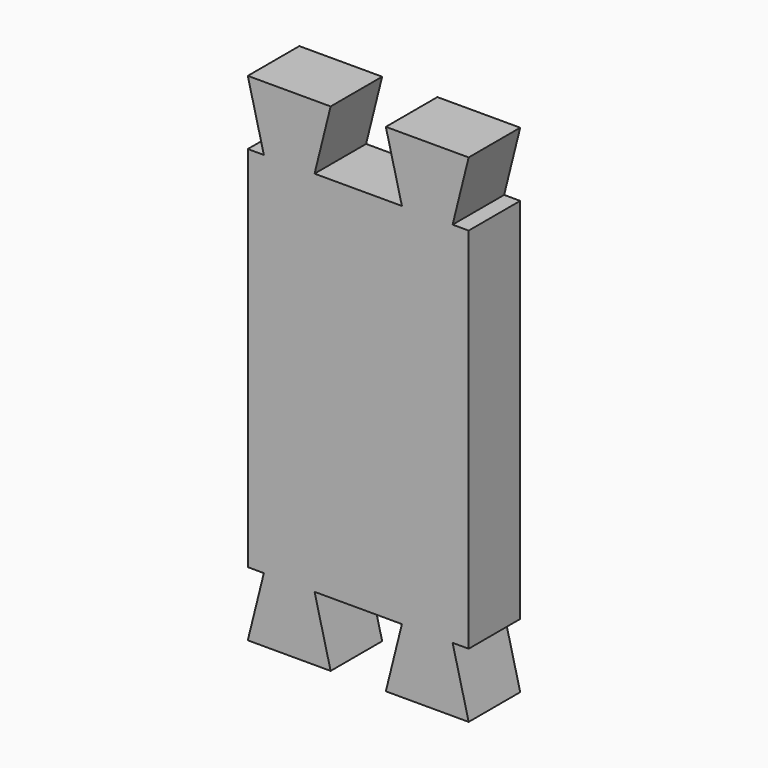
from build123d import *

# Parameters (mm, degrees)
F0_W     = 76.2
F0_H     = 171.45
F1_DEPTH = 22.225
F3_DEPTH = 22.226


with BuildPart() as f1:
    # F0 (on Front) → F1 (new body)
    with BuildSketch(Plane.XZ):
        with Locations((38.1, 85.725)):
            Rectangle(F0_W, F0_H)
    extrude(amount=F1_DEPTH)

    # F2 (on Front) → F3 (cut, through all)
    with BuildSketch(Plane.XZ):
        Polygon((28.575, 171.45), (23.033685, 149.225), (53.166315, 149.225), (47.625, 171.45), align=None)
        Polygon((76.2, 149.225), (76.2, 171.45), (70.658685, 149.225), align=None)
        Polygon((5.541315, 149.225), (0, 171.45), (0, 149.225), align=None)
        Polygon((70.658685, 22.225), (76.2, 0), (76.2, 22.225), align=None)
        Polygon((53.166315, 22.225), (23.033685, 22.225), (28.575, 0), (47.625, 0), align=None)
        Polygon((0, 22.225), (0, 0), (5.541315, 22.225), align=None)
    extrude(amount=F3_DEPTH, mode=Mode.SUBTRACT)


solid = f1.part
